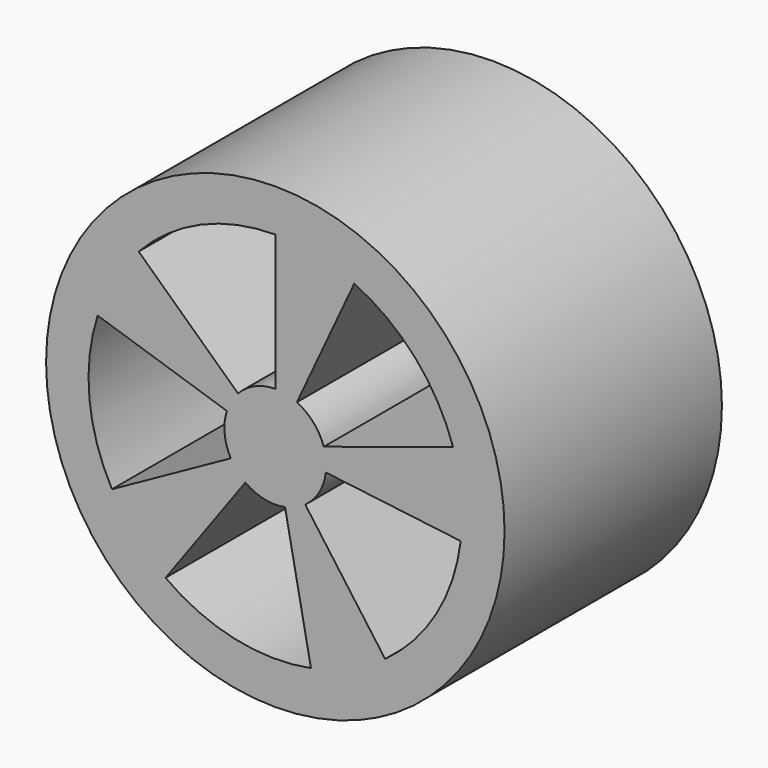
from build123d import *

# Parameters (mm, degrees)
F0_R     = 6.75
F1_DEPTH = 8
F3_DEPTH = 8


with BuildPart() as f1:
    # F0 (on Front) → F1 (new body)
    with BuildSketch(Plane.XZ):
        Circle(F0_R)
    extrude(amount=F1_DEPTH)

    # F2 (on face) → F3 (cut)
    with BuildSketch(Plane.XZ.offset(8)):
        with BuildLine():
            ThreePointArc((-1.31193, -0.727214), (-1.493094, -0.143769), (-1.426585, 0.463525))
            Line((-1.426585, 0.463525), (-5.230811, 1.699593))
            ThreePointArc((-5.230811, 1.699593), (-5.474679, -0.527152), (-4.810408, -2.666453))
            Line((-4.810408, -2.666453), (-1.31193, -0.727214))
        make_face()
        with BuildLine():
            ThreePointArc((-1.097031, 1.022998), (-0.598124, 1.37559), (0, 1.5))
            Line((0, 1.5), (0, 5.5))
            ThreePointArc((0, 5.5), (-2.19312, 5.04383), (-4.022445, 3.750991))
            Line((-4.022445, 3.750991), (-1.097031, 1.022998))
        make_face()
        with BuildLine():
            ThreePointArc((0.633927, 1.359462), (1.123434, 0.99393), (1.426585, 0.463525))
            Line((1.426585, 0.463525), (5.230811, 1.699593))
            ThreePointArc((5.230811, 1.699593), (4.119256, 3.64441), (2.3244, 4.984693))
            Line((2.3244, 4.984693), (0.633927, 1.359462))
        make_face()
        with BuildLine():
            Line((5.459004, -0.670281), (1.488819, -0.182804))
            ThreePointArc((1.488819, -0.182804), (1.292444, -0.761308), (0.881678, -1.213525))
            Line((0.881678, -1.213525), (3.232819, -4.449593))
            ThreePointArc((3.232819, -4.449593), (4.73896, -2.791461), (5.459004, -0.670281))
        make_face()
        with BuildLine():
            Line((1.049449, -5.39895), (0.286213, -1.472441))
            ThreePointArc((0.286213, -1.472441), (-0.324659, -1.464444), (-0.881678, -1.213525))
            Line((-0.881678, -1.213525), (-3.232819, -4.449593))
            ThreePointArc((-3.232819, -4.449593), (-1.190418, -5.369628), (1.049449, -5.39895))
        make_face()
    extrude(amount=-F3_DEPTH, mode=Mode.SUBTRACT)


solid = f1.part
